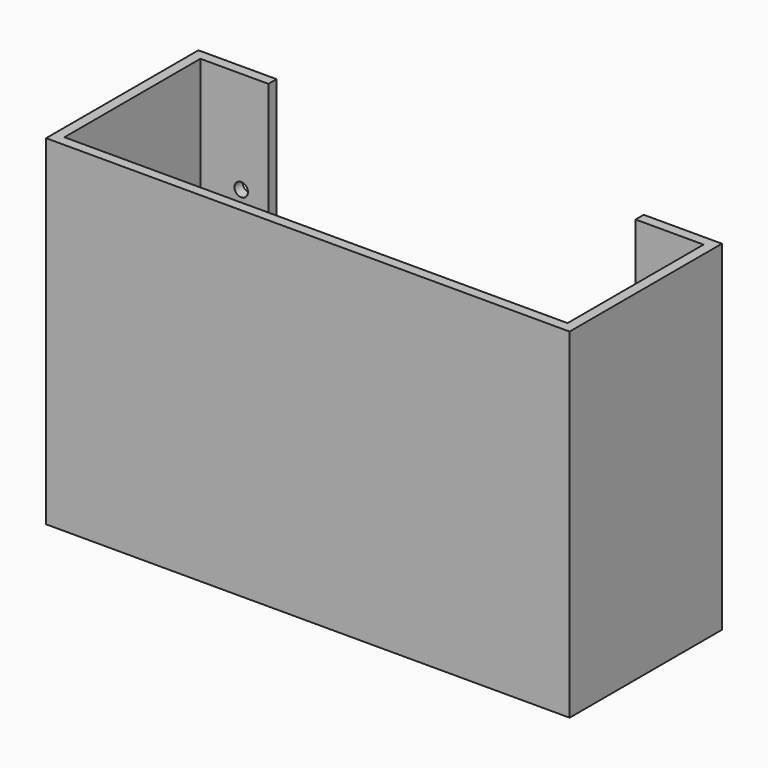
from build123d import *

# Parameters (mm, degrees)
F1_DEPTH = 50
F2_R     = 1
F3_DEPTH = 1.5


with BuildPart() as f1:
    # F0 (on Top) → F1 (new body)
    with BuildSketch(Plane.XY):
        Polygon((-27, 14), (-38.5, 14), (-38.5, -14), (38.5, -14), (38.5, 14), (27, 14), (27, 12.5), (37, 12.5), (37, -12.5), (0, -12.5), (-37, -12.5), (-37, 12.5), (-27, 12.5), align=None)
    extrude(amount=F1_DEPTH)

    # F2 (on face) → F3 (cut, through all)
    with BuildSketch(Plane(origin=(0, 14, 0), x_dir=(-1, 0, 0), z_dir=(0, 1, 0))):
        with Locations((-31, 5)):
            Circle(F2_R)
        with Locations((-31, 35)):
            Circle(F2_R)
        with Locations((31, 35)):
            Circle(F2_R)
        with Locations((31, 5)):
            Circle(F2_R)
    extrude(amount=-F3_DEPTH, mode=Mode.SUBTRACT)


solid = f1.part
